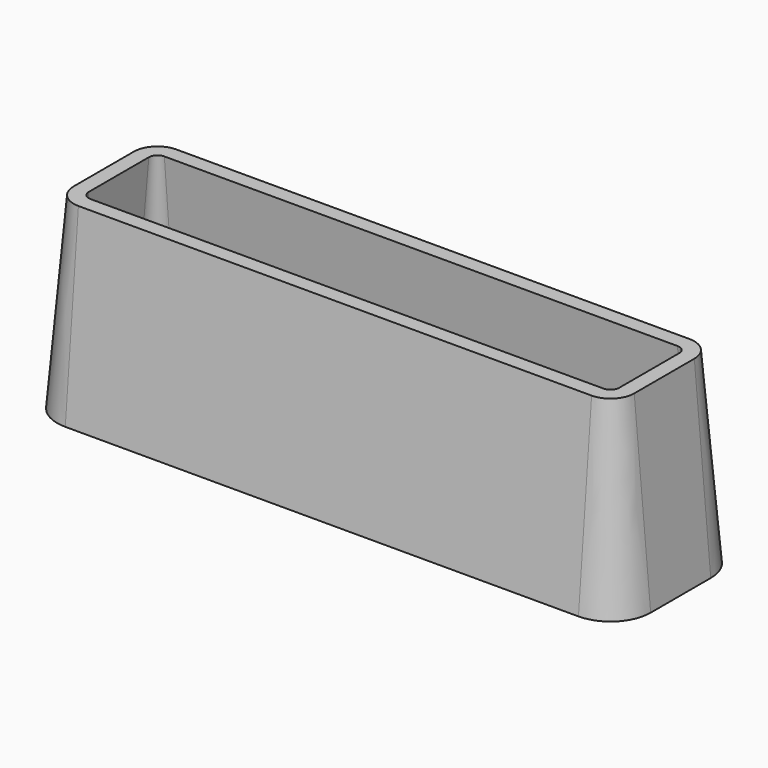
from build123d import *


with BuildPart() as f3:
    # F3: sweep along a path in F0
    with BuildLine(Plane.XY) as f3_path:
        Line((22.5, -3), (22.5, 3))
        ThreePointArc((22.5, 3), (21.9142135624, 4.4142135624), (20.5, 5))
        Line((20.5, 5), (-20.5, 5))
        ThreePointArc((-20.5, 5), (-21.9142135624, 4.4142135624), (-22.5, 3))
        Line((-22.5, 3), (-22.5, -3))
        ThreePointArc((-22.5, -3), (-21.9142135624, -4.4142135624), (-20.5, -5))
        Line((-20.5, -5), (20.5, -5))
        ThreePointArc((20.5, -5), (21.9142135624, -4.4142135624), (22.5, -3))
    # F2 (on plane+point) → F3 (sweep)
    with BuildSketch(Plane.XZ.offset(3)):
        Polygon((21.1876700471, 15), (22.5, 0), (23.7045838051, 0), (22.3922538522, 15), align=None)
    sweep(path=f3_path.line)


solid = f3.part
